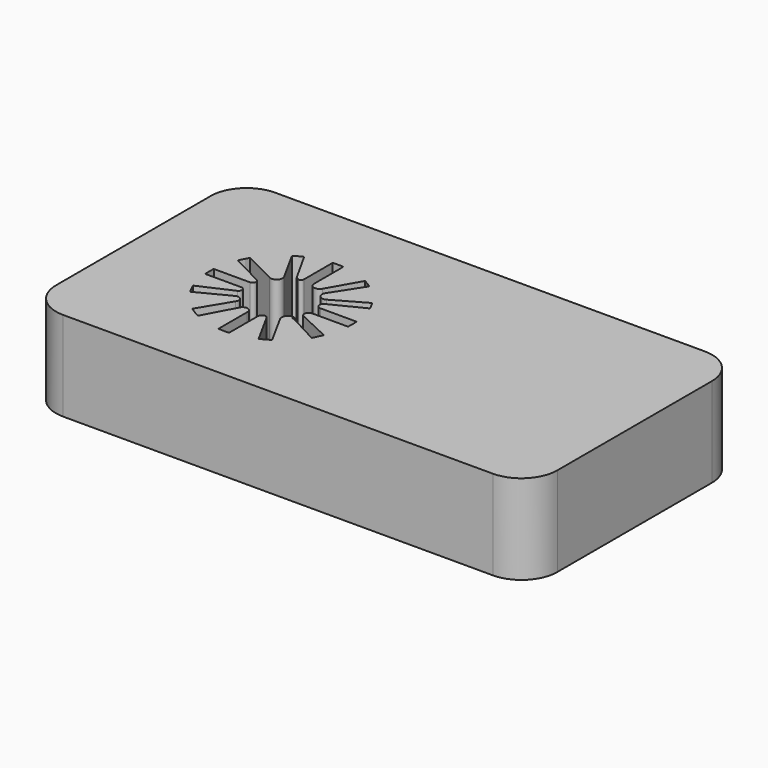
from build123d import *

# Parameters (mm, degrees)
F1_DEPTH = 25


with BuildPart() as f1:
    # F0 (on Top) → F1 (new body)
    with BuildSketch(Plane.XY):
        with BuildLine():
            ThreePointArc((-57.953546, 30.607847), (-57.446882, 29.499646), (-58.416757, 28.761975))
            ThreePointArc((-58.416757, 28.761975), (-58.529898, 27.261975), (-58.416757, 25.761975))
            ThreePointArc((-58.416757, 25.761975), (-57.465205, 25.019706), (-57.953546, 23.916103))
            ThreePointArc((-57.953546, 23.916103), (-57.47113, 22.783765), (-56.853262, 21.719268))
            ThreePointArc((-56.853262, 21.719268), (-55.274335, 21.414336), (-55.196246, 19.808131))
            ThreePointArc((-55.196246, 19.808131), (-53.98712, 18.882314), (-52.651435, 18.150832))
            ThreePointArc((-52.651435, 18.150832), (-51.023986, 18.833197), (-50.029898, 17.375115))
            ThreePointArc((-50.029898, 17.375115), (-48.529898, 17.261975), (-47.029898, 17.375115))
            ThreePointArc((-47.029898, 17.375115), (-46.370381, 18.370345), (-45.196815, 18.150832))
            Line((-45.196815, 18.150832), (-45.051432, 17.88646))
            ThreePointArc((-45.051432, 17.88646), (-43.684454, 18.514308), (-42.42712, 19.3401))
            ThreePointArc((-42.42712, 19.3401), (-42.178457, 21.333884), (-40.206533, 21.719268))
            ThreePointArc((-40.206533, 21.719268), (-39.672157, 22.620808), (-39.235069, 23.573323))
            ThreePointArc((-39.235069, 23.573323), (-39.776693, 24.894231), (-38.643038, 25.761975))
            ThreePointArc((-38.643038, 25.761975), (-38.529898, 27.261975), (-38.643038, 28.761975))
            ThreePointArc((-38.643038, 28.761975), (-39.8333, 29.614407), (-39.235069, 30.950627))
            ThreePointArc((-39.235069, 30.950627), (-39.672157, 31.903142), (-40.206533, 32.804682))
            ThreePointArc((-40.206533, 32.804682), (-42.145818, 33.109806), (-42.280061, 35.068353))
            ThreePointArc((-42.280061, 35.068353), (-43.176683, 35.708459), (-44.138275, 36.246053))
            ThreePointArc((-44.138275, 36.246053), (-45.946858, 35.535483), (-47.029898, 37.148835))
            ThreePointArc((-47.029898, 37.148835), (-48.529898, 37.261975), (-50.029898, 37.148835))
            ThreePointArc((-50.029898, 37.148835), (-50.61582, 36.41435), (-51.46214, 36.822412))
            ThreePointArc((-51.46214, 36.822412), (-51.598865, 36.779403), (-51.734959, 36.734439))
            ThreePointArc((-51.734959, 36.734439), (-52.416275, 36.475881), (-53.076951, 36.168394))
            ThreePointArc((-53.076951, 36.168394), (-53.658255, 35.846842), (-54.216927, 35.487405))
            ThreePointArc((-54.216927, 35.487405), (-54.521365, 33.482235), (-56.536531, 33.25312))
            ThreePointArc((-56.536531, 33.25312), (-57.344831, 31.98394), (-57.953546, 30.607847))
        make_face()
        Polygon((-48.936209, 27.612536), (-48.958612, 27.631866), (-48.914976, 27.631866), (-48.777016, 27.75746), (-48.560186, 27.954854), (-48.532724, 27.979855), (-48.532735, 27.904934), (-48.484508, 27.817237), (-48.317012, 27.512652), (-48.181242, 27.440397), (-48.256187, 27.402044), (-48.529898, 27.261975), (-48.946691, 27.048684), (-48.719861, 27.425874), align=None, mode=Mode.SUBTRACT)
        with BuildLine():
            Line((-31.436215, 37.792423), (-40.206533, 32.804682))
            ThreePointArc((-40.206533, 32.804682), (-39.672157, 31.903142), (-39.235069, 30.950627))
            Line((-39.235069, 30.950627), (-30.186063, 35.487405))
            Line((-30.186063, 35.487405), (-31.436215, 37.792423))
        make_face()
        with BuildLine():
            Line((39.470102, 65.261975), (-80.529898, 65.261975))
            ThreePointArc((-80.529898, 65.261975), (-87.600965, 62.333043), (-90.529898, 55.261975))
            Line((-90.529898, 55.261975), (-90.529898, 1.261975))
            ThreePointArc((-90.529898, 1.261975), (-87.600965, -5.809093), (-80.529898, -8.738025))
            Line((-80.529898, -8.738025), (39.470102, -8.738025))
            ThreePointArc((39.470102, -8.738025), (46.54117, -5.809093), (49.470102, 1.261975))
            Line((49.470102, 1.261975), (49.470102, 55.261975))
            ThreePointArc((49.470102, 55.261975), (46.54117, 62.333043), (39.470102, 65.261975))
        make_face()
        with BuildLine():
            Line((-68.473568, 28.761975), (-58.416757, 28.761975))
            ThreePointArc((-58.416757, 28.761975), (-57.446882, 29.499646), (-57.953546, 30.607847))
            Line((-57.953546, 30.607847), (-66.917042, 35.130452))
            ThreePointArc((-66.917042, 35.130452), (-66.497391, 36.046573), (-66.032131, 36.940396))
            ThreePointArc((-66.032131, 36.940396), (-65.904858, 37.167061), (-65.774651, 37.392053))
            ThreePointArc((-65.774651, 37.392053), (-65.655057, 37.592944), (-65.533122, 37.792423))
            Line((-65.533122, 37.792423), (-56.536531, 33.25312))
            ThreePointArc((-56.536531, 33.25312), (-54.521365, 33.482235), (-54.216927, 35.487405))
            Line((-54.216927, 35.487405), (-59.048139, 44.272754))
            ThreePointArc((-59.048139, 44.272754), (-57.871931, 44.946047), (-56.652824, 45.538136))
            Line((-56.652824, 45.538136), (-51.734959, 36.734439))
            ThreePointArc((-51.734959, 36.734439), (-51.598865, 36.779403), (-51.46214, 36.822412))
            ThreePointArc((-51.46214, 36.822412), (-50.61582, 36.41435), (-50.029898, 37.148835))
            Line((-50.029898, 37.148835), (-50.029898, 47.205646))
            ThreePointArc((-50.029898, 47.205646), (-48.529898, 47.261975), (-47.029898, 47.205646))
            Line((-47.029898, 47.205646), (-47.029898, 37.148835))
            ThreePointArc((-47.029898, 37.148835), (-45.946858, 35.535483), (-44.138275, 36.246053))
            Line((-44.138275, 36.246053), (-39.168957, 44.936046))
            ThreePointArc((-39.168957, 44.936046), (-38.800059, 44.735677), (-38.435449, 44.527609))
            ThreePointArc((-38.435449, 44.527609), (-37.632597, 44.03245), (-36.853985, 43.499988))
            Line((-36.853985, 43.499988), (-42.280061, 35.068353))
            ThreePointArc((-42.280061, 35.068353), (-42.145818, 33.109806), (-40.206533, 32.804682))
            Line((-40.206533, 32.804682), (-31.436215, 37.792423))
            Line((-31.436215, 37.792423), (-30.186063, 35.487405))
            Line((-30.186063, 35.487405), (-39.235069, 30.950627))
            ThreePointArc((-39.235069, 30.950627), (-39.8333, 29.614407), (-38.643038, 28.761975))
            Line((-38.643038, 28.761975), (-28.586227, 28.761975))
            ThreePointArc((-28.586227, 28.761975), (-28.55178, 28.197294), (-28.533318, 27.631866))
            ThreePointArc((-28.533318, 27.631866), (-28.537899, 26.696301), (-28.586227, 25.761975))
            Line((-28.586227, 25.761975), (-38.643038, 25.761975))
            ThreePointArc((-38.643038, 25.761975), (-39.776693, 24.894231), (-39.235069, 23.573323))
            Line((-39.235069, 23.573323), (-30.165696, 19.3401))
            Line((-30.165696, 19.3401), (-31.436215, 16.645359))
            Line((-31.436215, 16.645359), (-40.206533, 21.312802))
            Line((-40.206533, 21.312802), (-40.492028, 21.312802))
            ThreePointArc((-40.492028, 21.312802), (-40.346756, 21.514262), (-40.206533, 21.719268))
            ThreePointArc((-40.206533, 21.719268), (-42.178457, 21.333884), (-42.42712, 19.3401))
            Line((-42.42712, 19.3401), (-37.579988, 10.525802))
            ThreePointArc((-37.579988, 10.525802), (-38.866042, 9.751695), (-40.206533, 9.076222))
            Line((-40.206533, 9.076222), (-45.051432, 17.88646))
            Line((-45.051432, 17.88646), (-45.196815, 18.150832))
            ThreePointArc((-45.196815, 18.150832), (-46.370381, 18.370345), (-47.029898, 17.375115))
            Line((-47.029898, 17.375115), (-47.029898, 7.318304))
            ThreePointArc((-47.029898, 7.318304), (-48.529898, 7.261975), (-50.029898, 7.318304))
            Line((-50.029898, 7.318304), (-50.029898, 17.375115))
            ThreePointArc((-50.029898, 17.375115), (-51.023986, 18.833197), (-52.651435, 18.150832))
            Line((-52.651435, 18.150832), (-57.354282, 9.313988))
            ThreePointArc((-57.354282, 9.313988), (-58.916154, 10.170291), (-60.395644, 11.16216))
            Line((-60.395644, 11.16216), (-55.196246, 19.808131))
            ThreePointArc((-55.196246, 19.808131), (-55.274335, 21.414336), (-56.853262, 21.719268))
            Line((-56.853262, 21.719268), (-65.774651, 17.131897))
            ThreePointArc((-65.774651, 17.131897), (-66.481765, 18.445487), (-67.088998, 19.808131))
            Line((-67.088998, 19.808131), (-57.953546, 23.916103))
            ThreePointArc((-57.953546, 23.916103), (-57.465205, 25.019706), (-58.416757, 25.761975))
            Line((-58.416757, 25.761975), (-68.473568, 25.761975))
            ThreePointArc((-68.473568, 25.761975), (-68.529898, 27.261975), (-68.473568, 28.761975))
        make_face(mode=Mode.SUBTRACT)
    extrude(amount=F1_DEPTH)


solid = f1.part
